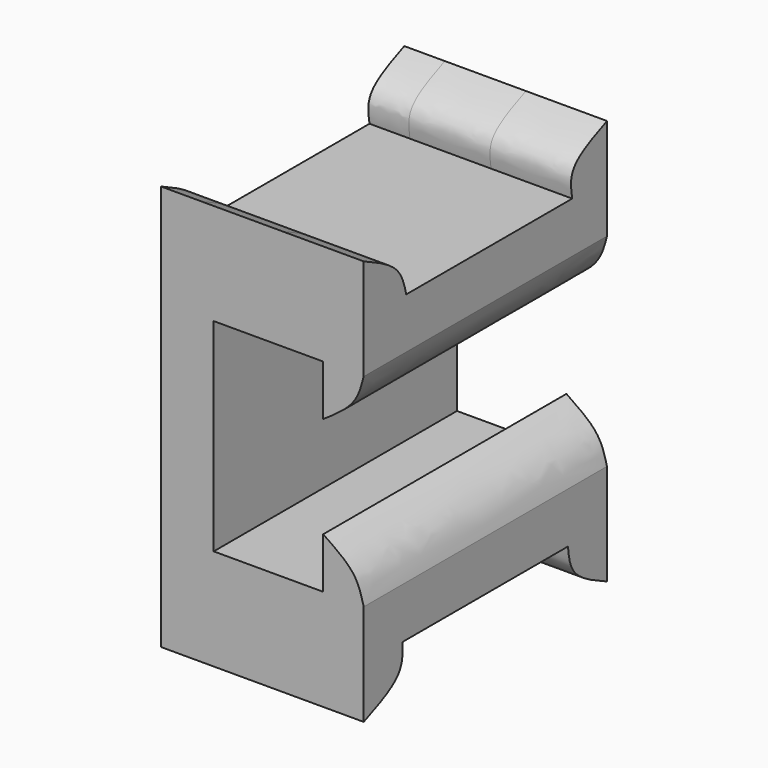
from build123d import *

# Parameters (mm, degrees)
F1_DEPTH  = 5.08
F2_W      = 9.398
F2_H      = 12.7
F3_DEPTH  = 36.4129
F5_W      = 19.05
F5_H      = 3.175
F4_W      = 19.05
F4_H      = 3.175
F6_DEPTH  = 2.54
F8_DEPTH  = 25.4
F10_DEPTH = 2.54


with BuildPart() as f1:
    # F0 (on Right) → F1 (new body, symmetric)
    with BuildSketch(Plane.YZ):
        Polygon((-9.525, 42.7627552986), (-9.525, 23.7127552986), (-6.4988480881, 23.7127552986), (6.468560081, 23.7127552986), (9.525, 23.7127552986), (9.525, 42.7627552986), (6.8012457341, 42.7627552986), (-6.1935493723, 42.7627552986), align=None)
        with BuildLine():
            Line((-9.525, 45.9377552986), (-9.525, 42.7627552986))
            Line((-9.525, 42.7627552986), (-6.1935493723, 42.7627552986))
            add(Edge.make_bspline(
                [(-9.525, 45.9377552986), (-8.4843289073, 45.4587623907), (-6.6623733691, 44.6201652706), (-6.3342528413, 43.3202012234), (-6.1935493723, 42.7627552986)],
                knots=[0, 0, 0, 0, 0.5711835832, 1, 1, 1, 1], degree=3))
        make_face()
        with BuildLine():
            add(Edge.make_bspline(
                [(9.525, 45.9377552986), (8.4082384885, 45.4684357534), (6.487493932, 44.6612419592), (6.708667258, 43.3229401352), (6.8012457341, 42.7627552986)],
                knots=[0, 0, 0, 0, 0.5814211514, 1, 1, 1, 1], degree=3))
            Line((6.8012457341, 42.7627552986), (9.525, 42.7627552986))
            Line((9.525, 42.7627552986), (9.525, 45.9377552986))
        make_face()
        with BuildLine():
            Line((-6.4988480881, 23.7127552986), (-9.525, 23.7127552986))
            Line((-9.525, 23.7127552986), (-9.525, 20.5377552986))
            add(Edge.make_bspline(
                [(-9.525, 20.5377552986), (-8.3782583984, 21.004520321), (-6.4146620617, 21.8037745617), (-6.4741154988, 23.1519254498), (-6.4988480881, 23.7127552986)],
                knots=[0, 0, 0, 0, 0.5840006829, 1, 1, 1, 1], degree=3))
        make_face()
        with BuildLine():
            Line((9.525, 23.7127552986), (6.468560081, 23.7127552986))
            add(Edge.make_bspline(
                [(9.525, 20.5377552986), (8.483129389, 21.0137326336), (6.6694729366, 21.8422994016), (6.528535002, 23.1544015571), (6.468560081, 23.7127552986)],
                knots=[0, 0, 0, 0, 0.5744586355, 1, 1, 1, 1], degree=3))
            Line((9.525, 20.5377552986), (9.525, 23.7127552986))
        make_face()
    extrude(amount=F1_DEPTH, both=True)

    # F2 (on face) → F3 (cut)
    with BuildSketch(Plane.XZ.offset(9.525)):
        with Locations((0.381, 33.2377552986)):
            Rectangle(F2_W, F2_H)
    extrude(amount=-F3_DEPTH, mode=Mode.SUBTRACT)

    # F5 (on face) + F4 (on face) → F6 (join)
    with BuildSketch(Plane.YZ.offset(5.08)):
        with Locations((0, 28.4752552986)):
            Rectangle(F5_W, F5_H)
    with BuildSketch(Plane.YZ.offset(5.08)):
        with Locations((0, 38.0002552986)):
            Rectangle(F4_W, F4_H)
    extrude(amount=-F6_DEPTH)

    # F7 (on face) → F8 (cut)
    with BuildSketch(Plane.XZ.offset(9.525)):
        with BuildLine():
            Line((5.08, 36.4127552986), (5.08, 39.5877552986))
            add(Edge.make_bspline(
                [(5.08, 39.5877552986), (4.9399237186, 39.0382267482), (4.6311542423, 37.8269035964), (3.2788294654, 36.9123905765), (2.54, 36.4127552986)],
                knots=[0, 0, 0, 0, 0.4536597435, 1, 1, 1, 1], degree=3))
            Line((2.54, 36.4127552986), (5.08, 36.4127552986))
        make_face()
        with BuildLine():
            add(Edge.make_bspline(
                [(5.08, 26.8877552986), (4.9399237186, 27.437283849), (4.6311542423, 28.6486070008), (3.2788294654, 29.5631200208), (2.54, 30.0627552986)],
                knots=[0, 0, 0, 0, 0.4536597435, 1, 1, 1, 1], degree=3))
            Line((5.08, 26.8877552986), (5.08, 30.0627552986))
            Line((5.08, 30.0627552986), (2.54, 30.0627552986))
        make_face()
    extrude(amount=-F8_DEPTH, mode=Mode.SUBTRACT)

    # F9 (on face) → F10 (join)
    with BuildSketch(Plane(origin=(-5.08, 0, 0), x_dir=(0, -1, 0), z_dir=(-1, 0, 0))):
        with BuildLine():
            add(Edge.make_bspline(
                [(-9.525, 20.5377552986), (-8.483129389, 21.0137326336), (-6.6694729366, 21.8422994016), (-6.528535002, 23.1544015571), (-6.468560081, 23.7127552986)],
                knots=[0, 0, 0, 0, 0.5744586355, 1, 1, 1, 1], degree=3))
            Line((-6.468560081, 23.7127552986), (6.4988480881, 23.7127552986))
            add(Edge.make_bspline(
                [(9.525, 20.5377552986), (8.3782583984, 21.004520321), (6.4146620617, 21.8037745617), (6.4741154988, 23.1519254498), (6.4988480881, 23.7127552986)],
                knots=[0, 0, 0, 0, 0.5840006829, 1, 1, 1, 1], degree=3))
            Line((9.525, 20.5377552986), (9.525, 45.9377552986))
            add(Edge.make_bspline(
                [(9.525, 45.9377552986), (8.4843289073, 45.4587623907), (6.6623733691, 44.6201652706), (6.3342528413, 43.3202012234), (6.1935493723, 42.7627552986)],
                knots=[0, 0, 0, 0, 0.5711835832, 1, 1, 1, 1], degree=3))
            Line((6.1935493723, 42.7627552986), (-6.8012457341, 42.7627552986))
            add(Edge.make_bspline(
                [(-9.525, 45.9377552986), (-8.4082384885, 45.4684357534), (-6.487493932, 44.6612419592), (-6.708667258, 43.3229401352), (-6.8012457341, 42.7627552986)],
                knots=[0, 0, 0, 0, 0.5814211514, 1, 1, 1, 1], degree=3))
            Line((-9.525, 45.9377552986), (-9.525, 20.5377552986))
        make_face()
    extrude(amount=F10_DEPTH)


solid = f1.part
